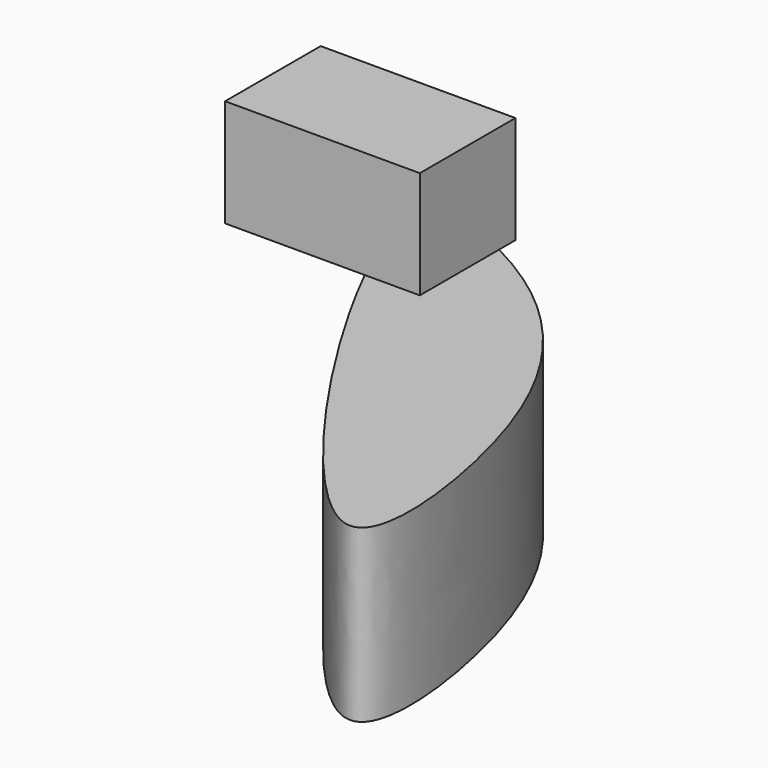
from build123d import *

# Parameters (mm, degrees)
F1_DEPTH = 88.5392725468
F2_W     = 100.7834430784
F2_H     = 61.8151761591
F3_DEPTH = 55.661432445


with BuildPart() as f1:
    # F0 (on Top) → F1 (new body)
    with BuildSketch(Plane.XY):
        with BuildLine():
            add(Edge.make_bspline(
                [(-65.6415894628, 81.1681002378), (-63.5844308539, 95.5663277412), (-15.0057498265, 78.3136690562), (46.292998149, 34.7165173687), (91.7507515154, -50.9204878447), (110.8142053909, -241.3143935451), (-71.0143349582, 43.5637990301), (-65.6415894628, 81.1681002378)],
                knots=[0, 0, 0, 0, 0.123224994, 0.2976301952, 0.5031827797, 0.6781694281, 1, 1, 1, 1], degree=3))
        make_face()
    extrude(amount=F1_DEPTH)

    # F2 (on face) → F3 (join)
    with BuildSketch(Plane.XY.offset(88.5392725468)):
        with Locations((-69.1145779565, 56.0958664864)):
            Rectangle(F2_W, F2_H)
    extrude(amount=F3_DEPTH)


solid = f1.part
